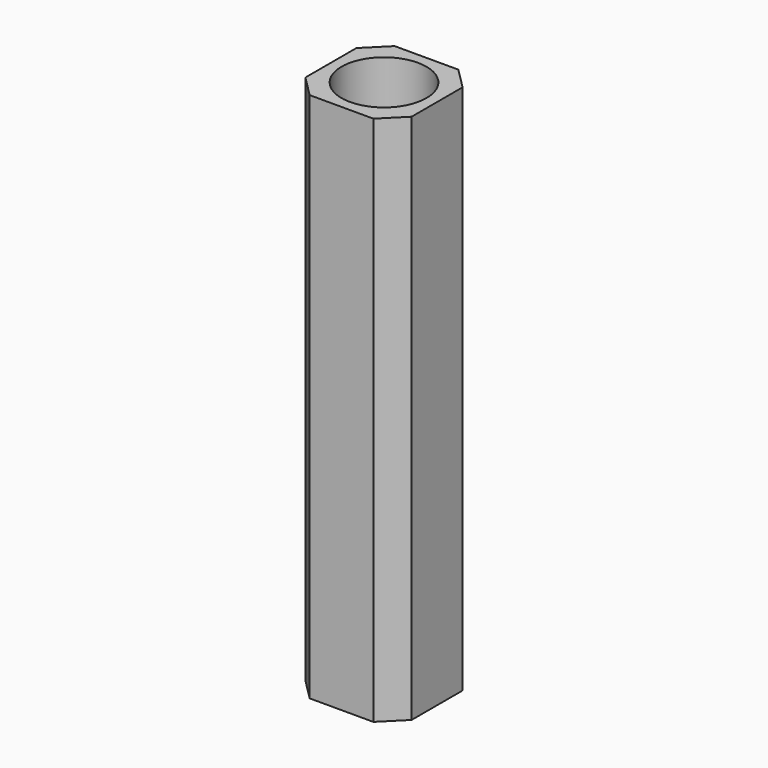
from build123d import *

# Parameters (mm, degrees)
F0_R     = 2
F1_DEPTH = 25


with BuildPart() as f1:
    # F0 (on Top) → F1 (new body)
    with BuildSketch(Plane.XY):
        Polygon((1.5, 2.5), (-1.5, 2.5), (-2.5, 1.5), (-2.5, -1.5), (-1.5, -2.5), (1.5, -2.5), (2.5, -1.5), (2.5, 1.5), align=None)
        Circle(F0_R, mode=Mode.SUBTRACT)
    extrude(amount=F1_DEPTH)


solid = f1.part
